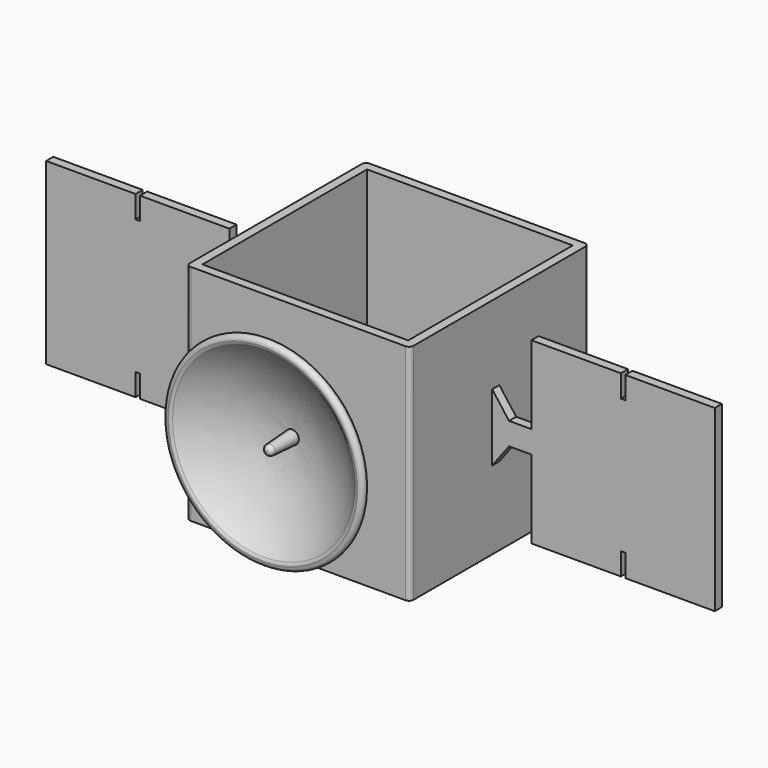
from build123d import *

# Parameters (mm, degrees)
F0_W      = 127
F0_H      = 127
F1_DEPTH  = 127
F2_T      = -5.08
F6_R      = 2.54
F11_R     = 2.54
F12_R     = 2.54
F13_W     = 2.54
F13_H     = 76.2
F14_DEPTH = 5.08


with BuildPart() as f1:
    # F0 (on Top) → F1 (new body)
    with BuildSketch(Plane.XY):
        Rectangle(F0_W, F0_H)
    extrude(amount=F1_DEPTH)

    # F2
    f2_openings = [f1.faces().sort_by_distance(p)[0] for p in [
        (0, 0, 127),
    ]]
    offset(amount=F2_T, openings=f2_openings)

    # F6
    f6_edges = [f1.edges().sort_by_distance(p)[0] for p in [
        (-63.5, -63.5, 63.5),
        (63.5, -63.5, 63.5),
        (63.5, 63.5, 63.5),
        (-63.5, 63.5, 63.5),
    ]]
    fillet(f6_edges, radius=F6_R)

    # F13 (on Front) → F14 (join)
    with BuildSketch(Plane.XZ):
        Polygon((-85.725, 114.3), (-136.525, 114.3), (-136.525, 101.6), (-136.525, 25.4), (-136.525, 12.7), (-85.725, 12.7), (-85.725, 57.15), (-85.725, 69.85), align=None)
        with Locations((-137.795, 63.5)):
            Rectangle(F13_W, F13_H)
        Polygon((-73.025, 69.85), (-85.725, 69.85), (-85.725, 57.15), (-73.025, 57.15), (-63.5, 44.45), (-63.5, 82.55), align=None)
        Polygon((-139.065, 25.4), (-139.065, 101.6), (-139.065, 114.3), (-189.865, 114.3), (-189.865, 12.7), (-139.065, 12.7), align=None)
        Polygon((85.725, 57.15), (85.725, 69.85), (73.025, 69.85), (63.5, 82.55), (63.5, 44.45), (73.025, 57.15), align=None)
        Polygon((85.725, 114.3), (85.725, 69.85), (85.725, 57.15), (85.725, 12.7), (136.525, 12.7), (136.525, 25.4), (136.525, 101.6), (136.525, 114.3), align=None)
        with Locations((137.795, 63.5)):
            Rectangle(F13_W, F13_H)
        Polygon((139.065, 114.3), (139.065, 101.6), (139.065, 25.4), (139.065, 12.7), (189.865, 12.7), (189.865, 114.3), align=None)
    extrude(amount=F14_DEPTH)


with BuildPart() as f10:
    # F8 (on offset) → F10 (revolve)
    with BuildSketch(Plane.XY.offset(63.5)):
        with BuildLine():
            Line((0, -85.8360975981), (0, -67.6244348288))
            add(Edge.make_bspline(
                [(0, -67.6244348288), (-1.3181296929, -67.6471609021), (-2.58705429, -67.6932761967), (-3.81, -67.7606751777)],
                knots=[0, 0, 0, 0, 0.0424536552, 0.0424536552, 0.0424536552, 0.0424536552], degree=3))
            Line((-3.81, -67.7606751777), (-2.7537473964, -85.8360975981))
            Line((-2.7537473964, -85.8360975981), (0, -85.8360975981))
        make_face()
        with BuildLine():
            add(Edge.make_bspline(
                [(0, -67.6244348288), (-1.3181296929, -67.6471609021), (-2.58705429, -67.6932761967), (-3.81, -67.7606751777)],
                knots=[0, 0, 0, 0, 0.0424536552, 0.0424536552, 0.0424536552, 0.0424536552], degree=3))
            Line((0, -67.6244348288), (0, -63.5))
            Line((0, -63.5), (-15.2272759005, -63.5))
            add(Edge.make_bspline(
                [(-15.2272759005, -63.5), (-29.8885186315, -66.8833619164), (-44.5856567443, -72.7379867121), (-54.9380147391, -83.0088070459), (-59.7811602056, -88.8225883245)],
                knots=[0, 0, 0, 0, 0.5538537115, 1, 1, 1, 1], degree=3))
            Line((-59.7811602056, -88.8225883245), (-52.4810627103, -88.6010231018))
            add(Edge.make_bspline(
                [(-3.81, -67.7606751777), (-18.4508074737, -68.5675593244), (-33.6190588324, -75.8348587349), (-45.0453271498, -81.1062681131), (-52.4810627103, -88.6010231018)],
                knots=[0.0424536552, 0.0424536552, 0.0424536552, 0.0424536552, 0.5506984514, 1, 1, 1, 1], degree=3))
        make_face()
    revolve(axis=Axis((0, -78.1127289653, 63.5), (0, -1, 0)))

    # F11
    f11_edges = [f10.edges().sort_by_distance(p)[0] for p in [
        (59.78116, -88.822588, 63.5),
        (52.481063, -88.601023, 63.5),
    ]]
    fillet(f11_edges, radius=F11_R)

    # F12
    f12_edges = [f10.edges().sort_by_distance(p)[0] for p in [
        (2.753747, -85.836098, 63.5),
    ]]
    fillet(f12_edges, radius=F12_R)


solid = Compound([f1.part, f10.part])
